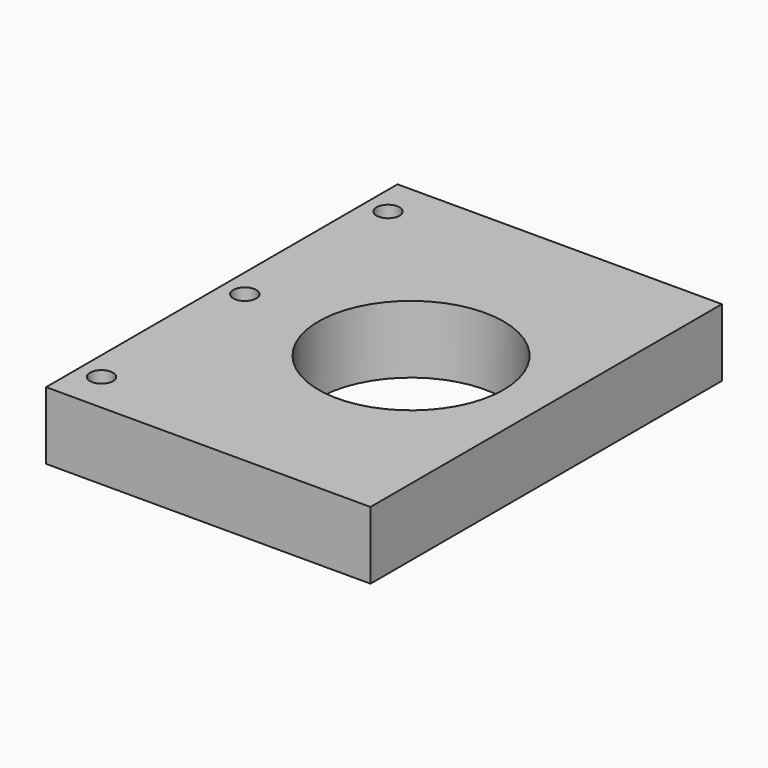
from build123d import *

# Parameters (mm, degrees)
CYLINDER003_R     = 1.7
CYLINDER003_DEPTH = 20
CYLINDER005_R     = 1.7
CYLINDER005_DEPTH = 20
CYLINDER002_R     = 1.7
CYLINDER002_DEPTH = 20
CYLINDER_R        = 13.7
CYLINDER_DEPTH    = 50
BOX_W             = 48
BOX_H             = 65
BOX_DEPTH         = 10


with BuildPart() as cylinder003:
    # Cylinder003 → Cylinder003 (new body)
    with BuildSketch(Plane(origin=(3.4, 59, -5), x_dir=(1, 0, 0), z_dir=(0, 0, 1))):
        Circle(CYLINDER003_R)
    extrude(amount=CYLINDER003_DEPTH)


with BuildPart() as cylinder005:
    # Cylinder005 → Cylinder005 (new body)
    with BuildSketch(Plane(origin=(3.4, 6, -5), x_dir=(1, 0, 0), z_dir=(0, 0, 1))):
        Circle(CYLINDER005_R)
    extrude(amount=CYLINDER005_DEPTH)


with BuildPart() as cylinder002:
    # Cylinder002 → Cylinder002 (new body)
    with BuildSketch(Plane(origin=(3.4, 32.5, -5), x_dir=(1, 0, 0), z_dir=(0, 0, 1))):
        Circle(CYLINDER002_R)
    extrude(amount=CYLINDER002_DEPTH)


with BuildPart() as cylinder:
    # Cylinder → Cylinder (new body)
    with BuildSketch(Plane(origin=(28, 32.5, -5), x_dir=(1, 0, 0), z_dir=(0, 0, 1))):
        Circle(CYLINDER_R)
    extrude(amount=CYLINDER_DEPTH)


with BuildPart() as cut003:
    # Box → Box (new body)
    with BuildSketch(Plane.XY):
        with Locations((24, 32.5)):
            Rectangle(BOX_W, BOX_H)
    extrude(amount=BOX_DEPTH)

    # Cut: cut Cylinder
    add(cylinder.part, mode=Mode.SUBTRACT)

    # Cut001: cut Cylinder002
    add(cylinder002.part, mode=Mode.SUBTRACT)

    # Cut002: cut Cylinder005
    add(cylinder005.part, mode=Mode.SUBTRACT)

    # Cut003: cut Cylinder003
    add(cylinder003.part, mode=Mode.SUBTRACT)


solid = cut003.part
